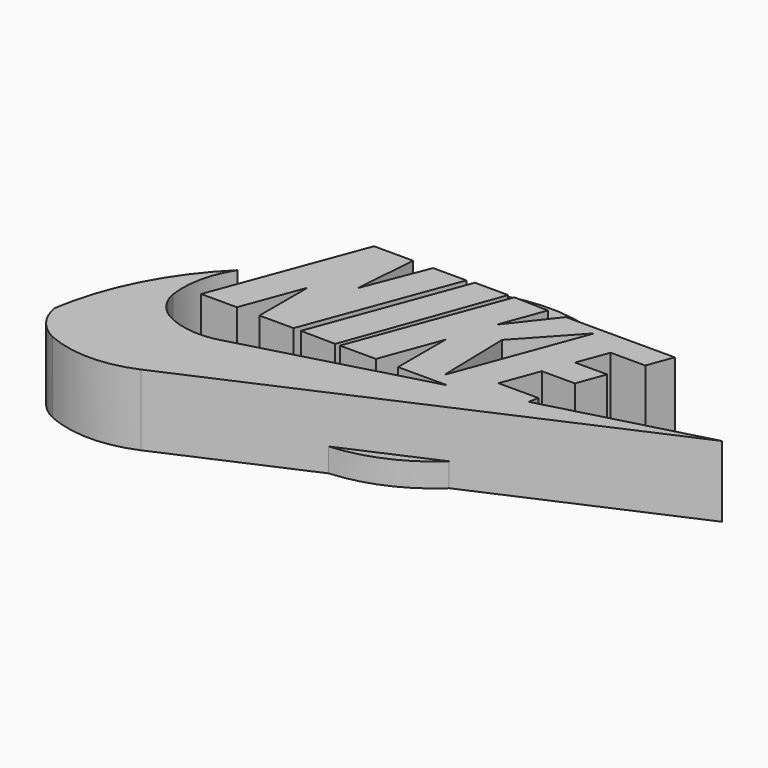
from build123d import *

# Parameters (mm, degrees)
F2_DEPTH = 19.05
F1_R     = 38.9599032657
F3_DEPTH = 6.35
F4_D     = 6.35


with BuildPart() as f2:
    # F0 (on Top) → F2 (new body)
    with BuildSketch(Plane.XY):
        Polygon((-46.7784367502, 32.4274450541), (-57.2518631816, 32.4274450541), (-71.9749704003, -7.0572411641), (-62.3826421797, -7.0572411641), (-56.3522954025, 9.1150482002), (-56.3522954025, -7.0572411641), (-47.213383019, -7.0572411641), (-32.4902758002, 32.4274450541), (-41.4133742452, 32.4274450541), (-48.040356487, 15.5276963487), align=None)
    extrude(amount=F2_DEPTH)



with BuildPart() as f2b:
    # F0 (on Top) → F2, piece 2 (new body)
    with BuildSketch(Plane.XY):
        Polygon((-35.947676748, -7.1813631803), (-21.5117447078, 32.7009521425), (-30.4481759667, 32.7009521425), (-45.2453941107, -7.0572411641), align=None)
    extrude(amount=F2_DEPTH)


with BuildPart() as f2c:
    # F0 (on Top) → F2, piece 3 (new body)
    with BuildSketch(Plane.XY):
        with BuildLine():
            Line((-14.9974728457, 20.7705546892), (-10.6590073556, 32.4274450541))
            Line((-10.6590073556, 32.4274450541), (-19.8539756238, 32.7009521425))
            Line((-19.8539756238, 32.7009521425), (-34.6973895427, -7.1813631803))
            Line((-34.6973895427, -7.1813631803), (-25.0511299819, -7.1813631803))
            Line((-25.0511299819, -7.1813631803), (-19.1294675285, 8.7293707311))
            Line((-19.1294675285, 8.7293707311), (-19.1294675285, -7.1813631803))
            Line((-19.1294675285, -7.1813631803), (-5.8616320603, -7.1813631803))
            Line((-5.8616320603, -7.1813631803), (-55.7639412582, -20.8262596279))
            ThreePointArc((-55.7639412582, -20.8262596279), (-63.4022025331, -21.3981451994), (-70.6976205111, -19.0642718226))
            ThreePointArc((-70.6976205111, -19.0642718226), (-74.472426735, -15.5960277609), (-76.4715448022, -10.8757093549))
            ThreePointArc((-76.4715448022, -10.8757093549), (-76.1562173184, -2.0282490142), (-72.7623030543, 6.14844542))
            ThreePointArc((-72.7623030543, 6.14844542), (-85.358680949, -10.9955429484), (-91.9176340103, -31.233260408))
            ThreePointArc((-91.9176340103, -31.233260408), (-89.2652472877, -37.3547894918), (-84.1291844845, -41.6126213968))
            ThreePointArc((-84.1291844845, -41.6126213968), (-72.2500160336, -44.1096014144), (-60.3708475828, -41.6126213968))
            Line((-60.3708475828, -41.6126213968), (54.6953529119, 8.9968936518))
            Line((54.6953529119, 8.9968936518), (12.0426900685, -2.3953781929))
            Line((12.0426900685, -2.3953781929), (12.5787025318, 0.2347060363))
            Line((12.5787025318, 0.2347060363), (1.8387236853, 0.2347060363))
            Line((1.8387236853, 0.2347060363), (5.5321310647, 10.158409473))
            Line((5.5321310647, 10.158409473), (14.3720662783, 10.158409473))
            Line((14.3720662783, 10.158409473), (17.1257853508, 17.5572931099))
            Line((17.1257853508, 17.5572931099), (8.5047732013, 17.5572931099))
            Line((8.5047732013, 17.5572931099), (11.5288449451, 25.6825790789))
            Line((11.5288449451, 25.6825790789), (20.8120857023, 25.6825790789))
            Line((20.8120857023, 25.6825790789), (23.3223922551, 32.4274450541))
            Line((23.3223922551, 32.4274450541), (-5.8616320603, 32.4274450541))
            Line((-5.8616320603, 32.4274450541), (-14.9974728457, 20.7705546892))
        make_face()
        Polygon((3.4076007732, 30.4201329794), (-9.3637462705, -3.8948091678), (-9.8301135004, 16.0215999931), align=None, mode=Mode.SUBTRACT)
    extrude(amount=F2_DEPTH)


with BuildPart() as f2_1:
    add(f2.part)

    add(f2b.part)  # F3 merges F2b

    add(f2c.part)  # F3 merges F2c
    # F1 (on Top) → F3 (join)
    with BuildSketch(Plane.XY):
        with Locations((-26.0827448219, 13.5601842776)):
            Circle(F1_R)
    extrude(amount=F3_DEPTH)

    # F4 (through all)
    with Locations(Plane(origin=(0, 0, 0), x_dir=(1, 0, 0), z_dir=(0, 0, -1))):
        with Locations((-26.6133137047, -42.7415519953)):
            Hole(F4_D / 2)


solid = f2_1.part
